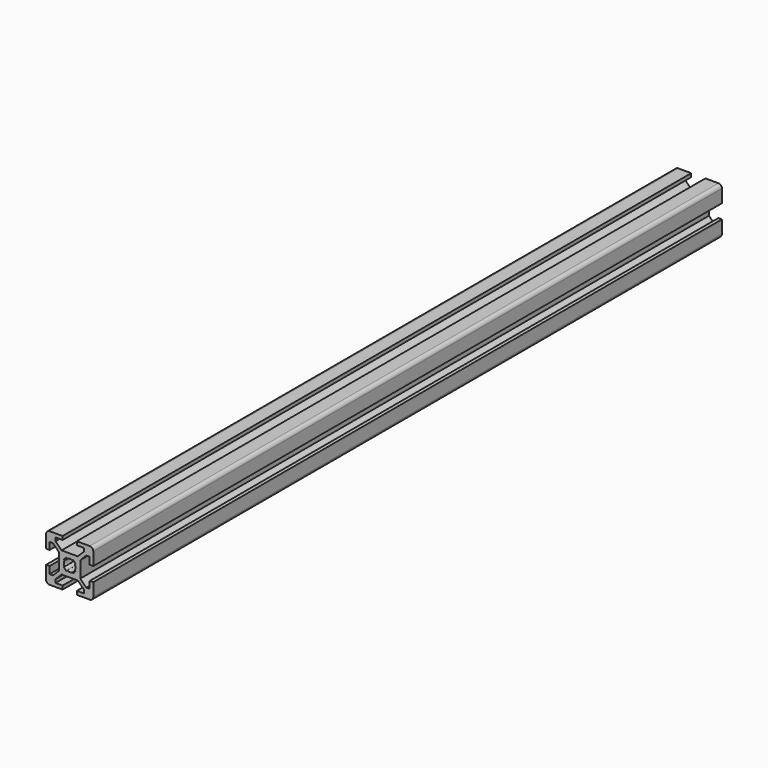
from build123d import *

# Parameters (mm, degrees)
F1_DEPTH = 333


with BuildPart() as f1:
    # F0 (on Front) → F1 (new body)
    with BuildSketch(Plane.XZ):
        with BuildLine():
            Line((3, -10), (8.5, -10))
            ThreePointArc((8.5, -10), (9.5606601718, -9.5606601718), (10, -8.5))
            Line((10, -8.5), (10, -3))
            Line((10, -3), (8.5, -3))
            Line((8.5, -3), (8.5, -6))
            Line((8.5, -6), (7.0606601718, -6))
            Line((7.0606601718, -6), (4.5, -3.4393398282))
            Line((4.5, -3.4393398282), (4.5, 3.4393398282))
            Line((4.5, 3.4393398282), (7.0606601718, 6))
            Line((7.0606601718, 6), (8.5, 6))
            Line((8.5, 6), (8.5, 3))
            Line((8.5, 3), (10, 3))
            Line((10, 3), (10, 8.5))
            ThreePointArc((10, 8.5), (9.5606601718, 9.5606601718), (8.5, 10))
            Line((8.5, 10), (3, 10))
            Line((3, 10), (3, 8.5))
            Line((3, 8.5), (6, 8.5))
            Line((6, 8.5), (6, 7.0606601718))
            Line((6, 7.0606601718), (3.4393398282, 4.5))
            Line((3.4393398282, 4.5), (-3.4393398282, 4.5))
            Line((-3.4393398282, 4.5), (-6, 7.0606601718))
            Line((-6, 7.0606601718), (-6, 8.5))
            Line((-6, 8.5), (-3, 8.5))
            Line((-3, 8.5), (-3, 10))
            Line((-3, 10), (-8.5, 10))
            ThreePointArc((-8.5, 10), (-9.5606601718, 9.5606601718), (-10, 8.5))
            Line((-10, 8.5), (-10, 3))
            Line((-10, 3), (-8.5, 3))
            Line((-8.5, 3), (-8.5, 6))
            Line((-8.5, 6), (-7.0606601718, 6))
            Line((-7.0606601718, 6), (-4.5, 3.4393398282))
            Line((-4.5, 3.4393398282), (-4.5, -3.4393398282))
            Line((-4.5, -3.4393398282), (-7.0606601718, -6))
            Line((-7.0606601718, -6), (-8.5, -6))
            Line((-8.5, -6), (-8.5, -3))
            Line((-8.5, -3), (-10, -3))
            Line((-10, -3), (-10, -8.5))
            ThreePointArc((-10, -8.5), (-9.5606601718, -9.5606601718), (-8.5, -10))
            Line((-8.5, -10), (-3, -10))
            Line((-3, -10), (-3, -8.5))
            Line((-3, -8.5), (-6, -8.5))
            Line((-6, -8.5), (-6, -7.0606601718))
            Line((-6, -7.0606601718), (-3.4393398282, -4.5))
            Line((-3.4393398282, -4.5), (3.4393398282, -4.5))
            Line((3.4393398282, -4.5), (6, -7.0606601718))
            Line((6, -7.0606601718), (6, -8.5))
            Line((6, -8.5), (3, -8.5))
            Line((3, -8.5), (3, -10))
        make_face()
        with BuildLine():
            ThreePointArc((-1.1560121095, 2.2166722813), (0, 2.5), (1.1560121095, 2.2166722813))
            Line((1.1560121095, 2.2166722813), (1.4393398282, 2.5))
            Line((1.4393398282, 2.5), (2.5, 1.4393398282))
            Line((2.5, 1.4393398282), (2.2166722813, 1.1560121095))
            ThreePointArc((2.2166722813, 1.1560121095), (2.5, 0), (2.2166722813, -1.1560121095))
            Line((2.2166722813, -1.1560121095), (2.5, -1.4393398282))
            Line((2.5, -1.4393398282), (1.4393398282, -2.5))
            Line((1.4393398282, -2.5), (1.1560121095, -2.2166722813))
            ThreePointArc((1.1560121095, -2.2166722813), (0, -2.5), (-1.1560121095, -2.2166722813))
            Line((-1.1560121095, -2.2166722813), (-1.4393398282, -2.5))
            Line((-1.4393398282, -2.5), (-2.5, -1.4393398282))
            Line((-2.5, -1.4393398282), (-2.2166722813, -1.1560121095))
            ThreePointArc((-2.2166722813, -1.1560121095), (-2.5, 0), (-2.2166722813, 1.1560121095))
            Line((-2.2166722813, 1.1560121095), (-2.5, 1.4393398282))
            Line((-2.5, 1.4393398282), (-1.4393398282, 2.5))
            Line((-1.4393398282, 2.5), (-1.1560121095, 2.2166722813))
        make_face(mode=Mode.SUBTRACT)
    extrude(amount=F1_DEPTH)


solid = f1.part
